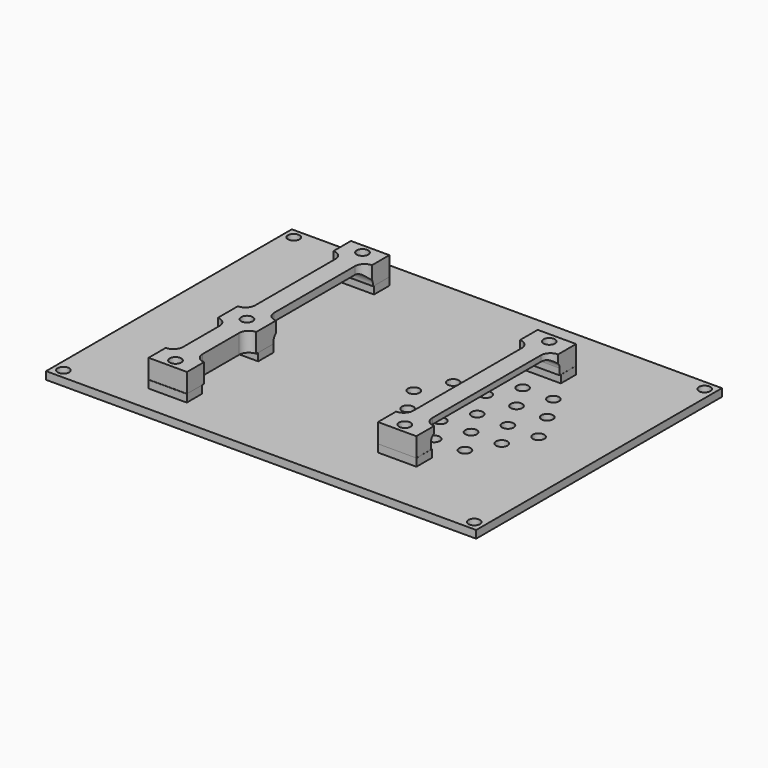
from build123d import *

# Parameters (mm, degrees)
SKETCH_W        = 112
SKETCH_H        = 80
SKETCH_R        = 1.5
PAD_DEPTH       = 2
SKETCH001_W     = 10
SKETCH001_H     = 5
SKETCH001_R     = 1
PAD001_DEPTH    = 2
SKETCH004_W     = 10
SKETCH004_H     = 65.878765
SKETCH004_R     = 1.5
PAD002_DEPTH    = 5
POCKET_DEPTH    = 10.001
POCKET001_DEPTH = 5.001
SKETCH007_W     = 10
SKETCH007_H     = 52
SKETCH007_R     = 1.5
PAD003_DEPTH    = 5
POCKET002_DEPTH = 10.001
POCKET003_DEPTH = 5.001


with BuildPart() as body:
    # Sketch → Pad (new body)
    with BuildSketch(Plane.XY):
        Rectangle(SKETCH_W, SKETCH_H)
        with Locations((-53.5, 37.5)):
            Circle(SKETCH_R, mode=Mode.SUBTRACT)
        with Locations((53.5, 37.5)):
            Circle(SKETCH_R, mode=Mode.SUBTRACT)
        with Locations((-53.5, -37.5)):
            Circle(SKETCH_R, mode=Mode.SUBTRACT)
        with Locations((53.5, -37.5)):
            Circle(SKETCH_R, mode=Mode.SUBTRACT)
        with Locations((7.768066, 0)):
            Circle(SKETCH_R, mode=Mode.SUBTRACT)
        with Locations((15.768066, 0)):
            Circle(SKETCH_R, mode=Mode.SUBTRACT)
        with Locations((32.268066, 0)):
            Circle(SKETCH_R, mode=Mode.SUBTRACT)
        with Locations((24.268066, 0)):
            Circle(SKETCH_R, mode=Mode.SUBTRACT)
        with Locations((40.268066, 0)):
            Circle(SKETCH_R, mode=Mode.SUBTRACT)
        with Locations((36.268066, 7.8)):
            Circle(SKETCH_R, mode=Mode.SUBTRACT)
        with Locations((11.768066, 7.8)):
            Circle(SKETCH_R, mode=Mode.SUBTRACT)
        with Locations((28.268066, 7.8)):
            Circle(SKETCH_R, mode=Mode.SUBTRACT)
        with Locations((20.268066, 7.8)):
            Circle(SKETCH_R, mode=Mode.SUBTRACT)
        with Locations((32.268066, 14.8)):
            Circle(SKETCH_R, mode=Mode.SUBTRACT)
        with Locations((24.268066, 14.8)):
            Circle(SKETCH_R, mode=Mode.SUBTRACT)
        with Locations((15.768066, 14.8)):
            Circle(SKETCH_R, mode=Mode.SUBTRACT)
        with Locations((36.268066, -7)):
            Circle(SKETCH_R, mode=Mode.SUBTRACT)
        with Locations((11.768066, -7)):
            Circle(SKETCH_R, mode=Mode.SUBTRACT)
        with Locations((28.268066, -7)):
            Circle(SKETCH_R, mode=Mode.SUBTRACT)
        with Locations((20.268066, -7)):
            Circle(SKETCH_R, mode=Mode.SUBTRACT)
        with Locations((32.268066, -14)):
            Circle(SKETCH_R, mode=Mode.SUBTRACT)
        with Locations((24.268066, -14)):
            Circle(SKETCH_R, mode=Mode.SUBTRACT)
        with Locations((15.768066, -14)):
            Circle(SKETCH_R, mode=Mode.SUBTRACT)
    extrude(amount=PAD_DEPTH)

    # Sketch001 → Pad001 (join)
    with BuildSketch(Plane.XY.offset(2)):
        with Locations((-30, 30.5)):
            Rectangle(SKETCH001_W, SKETCH001_H)
        with Locations((-30, 30.5)):
            Circle(SKETCH001_R, mode=Mode.SUBTRACT)
        with Locations((-30, -7.206513)):
            Rectangle(SKETCH001_W, SKETCH001_H)
        with Locations((-30, -7.206513)):
            Circle(SKETCH001_R, mode=Mode.SUBTRACT)
        with Locations((-30, -30.452583)):
            Rectangle(SKETCH001_W, SKETCH001_H)
        with Locations((-30, -30.452583)):
            Circle(SKETCH001_R, mode=Mode.SUBTRACT)
        with Locations((24.116249, 23.660286)):
            Rectangle(SKETCH001_W, SKETCH001_H)
        with Locations((24.116249, 23.660286)):
            Circle(SKETCH001_R, mode=Mode.SUBTRACT)
        with Locations((24.116249, -23.336441)):
            Rectangle(SKETCH001_W, SKETCH001_H)
        with Locations((24.116249, -23.336441)):
            Circle(SKETCH001_R, mode=Mode.SUBTRACT)
    extrude(amount=PAD001_DEPTH)


with BuildPart() as obj1:
    # Sketch004 → Pad002 (new body)
    with BuildSketch(Plane.XY):
        with Locations((-30, 0.053565)):
            Rectangle(SKETCH004_W, SKETCH004_H)
        with Locations((-30, 30.492947)):
            Circle(SKETCH004_R, mode=Mode.SUBTRACT)
        with Locations((-30, -7.105416)):
            Circle(SKETCH004_R, mode=Mode.SUBTRACT)
        with Locations((-30, -30.374189)):
            Circle(SKETCH004_R, mode=Mode.SUBTRACT)
    extrude(amount=PAD002_DEPTH)

    # Sketch005 (on DatumPlane) → Pocket (cut, through all)
    with BuildSketch(Plane(origin=(-35, 0, 0), x_dir=(0, -1, 0), z_dir=(-1, 0, 0))):
        with BuildLine():
            Line((-27.7, 0), (4.8, 0))
            Line((4.8, 0), (4.8, 0.12222))
            ThreePointArc((4.8, 0.12222), (3.957118, 2.157118), (1.92222, 3))
            Line((1.92222, 3), (-15.561955, 3))
            Line((-24.9011, 3), (-15.561955, 3))
            ThreePointArc((-24.9011, 3), (-26.880221, 2.180221), (-27.7, 0.2011))
            Line((-27.7, 0), (-27.7, 0.2011))
        make_face()
    extrude(amount=-POCKET_DEPTH, mode=Mode.SUBTRACT)

    # Sketch006 (on DatumPlane) → Pocket001 (cut, through all)
    with BuildSketch(Plane.XY.offset(5)):
        with BuildLine():
            ThreePointArc((-22.446491, 24.834687), (-24.946491, 27.334687), (-27.446491, 24.834687))
            Line((-27.446491, 24.834687), (-27.446491, -1.425812))
            ThreePointArc((-27.446491, -1.425812), (-24.946491, -3.925812), (-22.446491, -1.425812))
            Line((-22.446491, 24.834687), (-22.446491, -1.425812))
        make_face()
        with BuildLine():
            ThreePointArc((-32.495628, 24.83469), (-34.995628, 27.33469), (-37.495628, 24.83469))
            Line((-37.495628, 24.83469), (-37.495628, -1.331003))
            ThreePointArc((-37.495628, -1.331003), (-34.995628, -3.831003), (-32.495628, -1.331003))
            Line((-32.495628, 24.83469), (-32.495628, -1.331003))
        make_face()
        with BuildLine():
            ThreePointArc((-22.446491, -12.849598), (-24.946491, -10.349598), (-27.446491, -12.849598))
            Line((-27.446491, -12.849598), (-27.446491, -24.794807))
            ThreePointArc((-27.446491, -24.794807), (-24.946491, -27.294807), (-22.446491, -24.794807))
            Line((-22.446491, -12.849598), (-22.446491, -24.794807))
        make_face()
        with BuildLine():
            ThreePointArc((-32.495628, -12.849597), (-34.995628, -10.349597), (-37.495628, -12.849597))
            Line((-37.495628, -12.849597), (-37.495628, -24.794806))
            ThreePointArc((-37.495628, -24.794806), (-34.995628, -27.294806), (-32.495628, -24.794806))
            Line((-32.495628, -12.849597), (-32.495628, -24.794806))
        make_face()
    extrude(amount=-POCKET001_DEPTH, mode=Mode.SUBTRACT)


with BuildPart() as obj1_1:
    # Body001 placement: moved
    add(obj1.part.moved(Location((0, 0, 4))))


with BuildPart() as body002:
    # Sketch007 → Pad003 (new body)
    with BuildSketch(Plane.XY):
        with Locations((24.1, 0.158363)):
            Rectangle(SKETCH007_W, SKETCH007_H)
        with Locations((24.124722, 23.647152)):
            Circle(SKETCH007_R, mode=Mode.SUBTRACT)
        with Locations((24.094748, -23.331127)):
            Circle(SKETCH007_R, mode=Mode.SUBTRACT)
    extrude(amount=PAD003_DEPTH)

    # Sketch008 (on DatumPlane) → Pocket002 (cut, through all)
    with BuildSketch(Plane(origin=(19.1, 0, 0), x_dir=(0, -1, 0), z_dir=(-1, 0, 0))):
        with BuildLine():
            Line((-18.923236, 3.5), (19.272789, 3.5))
            ThreePointArc((21.125266, 1.647523), (20.582688, 2.957422), (19.272789, 3.5))
            Line((21.125266, 1.647523), (21.125266, 0))
            Line((21.125266, 0), (-20.774734, 0))
            Line((-20.774734, 0), (-20.774734, 1.648503))
            ThreePointArc((-18.923236, 3.5), (-20.232443, 2.957709), (-20.774734, 1.648503))
        make_face()
    extrude(amount=-POCKET002_DEPTH, mode=Mode.SUBTRACT)

    # Sketch009 (on DatumPlane) → Pocket003 (cut, through all)
    with BuildSketch(Plane.XY.offset(5)):
        with BuildLine():
            ThreePointArc((21.6, 17.879513), (19.1, 20.379513), (16.6, 17.879513))
            Line((16.6, 17.879513), (16.6, -17.446199))
            ThreePointArc((16.6, -17.446199), (19.1, -19.946199), (21.6, -17.446199))
            Line((21.6, 17.879513), (21.6, -17.446199))
        make_face()
        with BuildLine():
            ThreePointArc((31.6, 17.788912), (29.1, 20.288912), (26.6, 17.788912))
            Line((26.6, 17.788912), (26.6, -17.5368))
            ThreePointArc((26.6, -17.5368), (29.1, -20.0368), (31.6, -17.5368))
            Line((31.6, 17.788912), (31.6, -17.5368))
        make_face()
    extrude(amount=-POCKET003_DEPTH, mode=Mode.SUBTRACT)


with BuildPart() as body002_1:
    # Body002 placement: moved
    add(body002.part.moved(Location((0, 0, 4))))


solid = Compound([body.part, obj1_1.part, body002_1.part])
